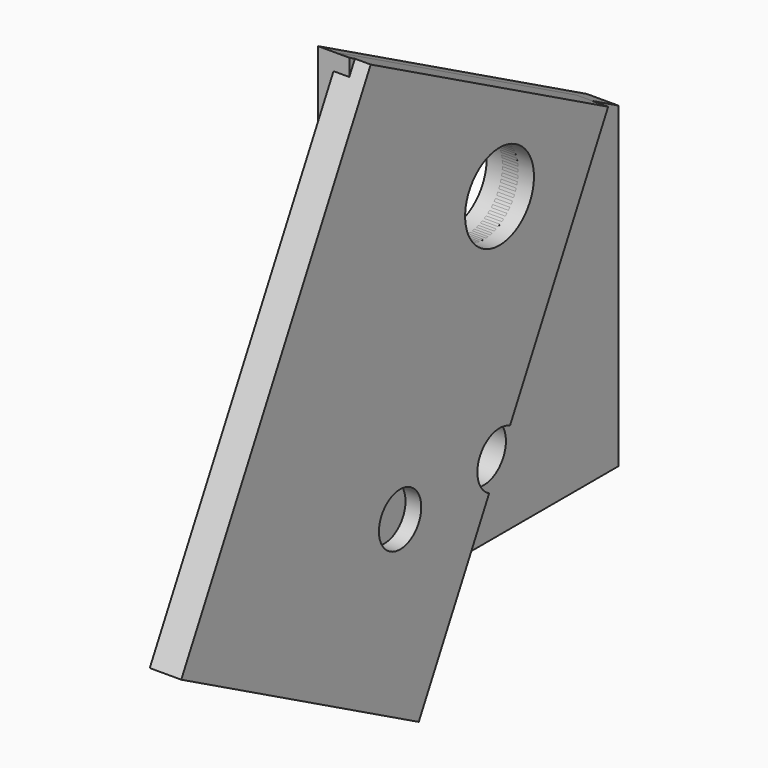
from build123d import *

# Parameters (mm, degrees)
F1_DEPTH = 4.7625
F3_D     = 16.75
F4_D     = 26
F5_R     = 13
F6_DEPTH = 9.525
F8_D     = 16


with BuildPart() as f1:
    # F0 (on Right) → F1 (new body, symmetric)
    with BuildSketch(Plane.YZ):
        Polygon((0, 150), (0, 0), (101.6, 0), (101.6, 95.9783217432), align=None)
    extrude(amount=F1_DEPTH, both=True)

    # F3 (through all)
    with Locations(Plane.YZ.offset(4.7625)):
        with Locations((50.8, 24)):
            Hole(F3_D / 2)

    # F4 (through all)
    with Locations(Plane.YZ.offset(4.7625)):
        with Locations((50.8, 94)):
            Hole(F4_D / 2)


with BuildPart() as f6:
    # F5 (on Right) → F6 (new body)
    with BuildSketch(Plane.YZ):
        with BuildLine():
            Line((91.8328668191, 101.1715985758), (2.1253913847, 148.8699093548))
            Line((2.1253913847, 148.8699093548), (-69.4220747839, 14.3086962031))
            Line((-69.4220747839, 14.3086962031), (20.2854006506, -33.3896145759))
            Line((20.2854006506, -33.3896145759), (46.8681756617, 16.6053139098))
            ThreePointArc((46.8681756617, 16.6053139098), (43.4053139098, 27.9318243383), (54.7318243383, 31.3946860902))
            Line((54.7318243383, 31.3946860902), (91.8328668191, 101.1715985758))
        make_face()
        with Locations((50.8, 94)):
            Circle(F5_R, mode=Mode.SUBTRACT)
    extrude(amount=F6_DEPTH)

    # F8 (through all)
    with Locations(Plane.YZ.offset(9.525)):
        with Locations((13.2422749771, 23.3641925713)):
            Hole(F8_D / 2)


solid = Compound([f1.part, f6.part])
